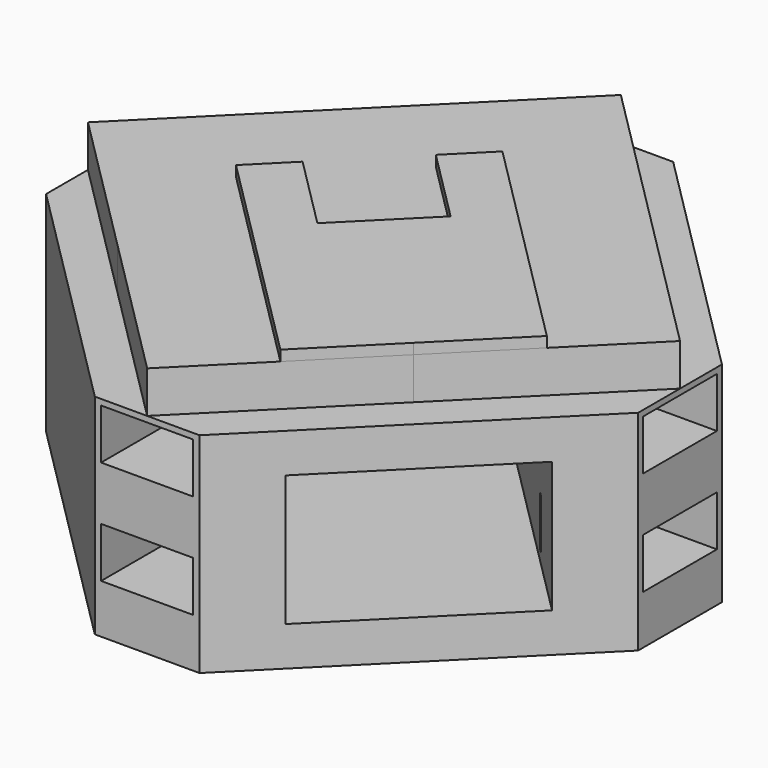
from build123d import *

# Parameters (mm, degrees)
F1_DEPTH  = 15.24
F2_DEPTH  = 12.7
F4_W      = 5.588
F4_H      = 3.048
F4_W_2    = 5.08
F4_H_2    = 2.481671654
F4_W_3    = 2.54
F4_H_3    = 2.6544967359
F5_DEPTH  = 6.604
F6_W      = 5.588
F6_H      = 3.048
F6_W_2    = 5.08
F6_H_2    = 2.481671654
F6_W_3    = 2.54
F6_H_3    = 2.6544967359
F7_DEPTH  = 6.604
F8_W      = 5.588
F8_H      = 3.048
F8_W_2    = 5.08
F8_H_2    = 2.481671654
F8_W_3    = 2.54
F8_H_3    = 2.6544967359
F9_DEPTH  = 6.604
F10_DEPTH = 3.175
F11_W     = 5.588
F11_H     = 3.048
F11_W_2   = 5.08
F11_H_2   = 2.481671654
F11_W_3   = 2.54
F11_H_3   = 2.6544967359
F12_DEPTH = 6.604
F14_DEPTH = 38.1


with BuildPart() as f1:
    # F0 (on Top) → F1 (new body)
    with BuildSketch(Plane.XY):
        Polygon((8.9802561211, 8.9802561211), (0, 17.9605122421), (-8.9802561211, 8.9802561211), (0, 0), align=None)
        Polygon((17.9605122421, 0), (8.9802561211, 8.9802561211), (0, 0), (8.9802561211, -8.9802561211), align=None)
        Polygon((0, 0), (-8.9802561211, -8.9802561211), (0, -17.9605122421), (8.9802561211, -8.9802561211), align=None)
        Polygon((-8.9802561211, 8.9802561211), (-17.9605122421, 0), (-8.9802561211, -8.9802561211), (0, 0), align=None)
    extrude(amount=F1_DEPTH)

    # F0 (on Top) → F2 (join)
    with BuildSketch(Plane.XY):
        Polygon((0, 17.9605122421), (-3.175, 17.9605122421), (-17.9605122421, 3.175), (-17.9605122421, 0), (-8.9802561211, 8.9802561211), align=None)
        Polygon((-8.9802561211, -8.9802561211), (-17.9605122421, 0), (-17.9605122421, -3.175), (-3.175, -17.9605122421), (0, -17.9605122421), align=None)
        Polygon((17.9605122421, -3.175), (17.9605122421, 0), (8.9802561211, -8.9802561211), (0, -17.9605122421), (3.175, -17.9605122421), align=None)
        Polygon((3.175, 17.9605122421), (0, 17.9605122421), (8.9802561211, 8.9802561211), (17.9605122421, 0), (17.9605122421, 3.175), align=None)
    extrude(amount=F2_DEPTH)

    # F4 (on face) → F5 (cut)
    with BuildSketch(Plane(origin=(-17.9605122421, 0, 0), x_dir=(0, -1, 0), z_dir=(-1, 0, 0))):
        with Locations((0, 10.824164173)):
            Rectangle(F4_W, F4_H)
        with Locations((0, 10.824164173)):
            Rectangle(F4_W_2, F4_H_2, mode=Mode.SUBTRACT)
        with Locations((0, 10.824164173)):
            Rectangle(F4_W_2, F4_H_2)
        with Locations((-1.27, 4.5022483679)):
            Rectangle(F4_W_3, F4_H_3)
        with Locations((1.27, 4.5022483679)):
            Rectangle(F4_W_3, F4_H_3)
        Polygon((0, 3.175), (-2.54, 3.175), (-2.54, 5.8294967359), (0, 5.8294967359), (0, 6.0262483679), (-2.794, 6.0262483679), (-2.794, 2.9782483679), (0, 2.9782483679), align=None)
        Polygon((2.54, 3.175), (0, 3.175), (0, 2.9782483679), (2.794, 2.9782483679), (2.794, 6.0262483679), (0, 6.0262483679), (0, 5.8294967359), (2.54, 5.8294967359), align=None)
    extrude(amount=-F5_DEPTH, mode=Mode.SUBTRACT)

    # F6 (on face) → F7 (cut)
    with BuildSketch(Plane.YZ.offset(17.9605122421)):
        with Locations((0, 10.824164173)):
            Rectangle(F6_W, F6_H)
        with Locations((0, 10.824164173)):
            Rectangle(F6_W_2, F6_H_2, mode=Mode.SUBTRACT)
        with Locations((0, 10.824164173)):
            Rectangle(F6_W_2, F6_H_2)
        with Locations((1.27, 4.5022483679)):
            Rectangle(F6_W_3, F6_H_3)
        with Locations((-1.27, 4.5022483679)):
            Rectangle(F6_W_3, F6_H_3)
        Polygon((0, 3.175), (-2.54, 3.175), (-2.54, 5.8294967359), (0, 5.8294967359), (0, 6.0262483679), (-2.794, 6.0262483679), (-2.794, 2.9782483679), (0, 2.9782483679), align=None)
        Polygon((2.54, 3.175), (0, 3.175), (0, 2.9782483679), (2.794, 2.9782483679), (2.794, 6.0262483679), (0, 6.0262483679), (0, 5.8294967359), (2.54, 5.8294967359), align=None)
    extrude(amount=-F7_DEPTH, mode=Mode.SUBTRACT)

    # F8 (on face) → F9 (cut)
    with BuildSketch(Plane.XZ.offset(17.9605122421)):
        with Locations((0, 10.824164173)):
            Rectangle(F8_W, F8_H)
        with Locations((0, 10.824164173)):
            Rectangle(F8_W_2, F8_H_2, mode=Mode.SUBTRACT)
        Polygon((2.54, 3.175), (0, 3.175), (0, 2.9782483679), (2.794, 2.9782483679), (2.794, 6.0262483679), (0, 6.0262483679), (0, 5.8294967359), (2.54, 5.8294967359), align=None)
        Polygon((0, 3.175), (-2.54, 3.175), (-2.54, 5.8294967359), (0, 5.8294967359), (0, 6.0262483679), (-2.794, 6.0262483679), (-2.794, 2.9782483679), (0, 2.9782483679), align=None)
        with Locations((-1.27, 4.5022483679)):
            Rectangle(F8_W_3, F8_H_3)
        with Locations((0, 10.824164173)):
            Rectangle(F8_W_2, F8_H_2)
        with Locations((1.27, 4.5022483679)):
            Rectangle(F8_W_3, F8_H_3)
    extrude(amount=-F9_DEPTH, mode=Mode.SUBTRACT)

    # F3 (on face) → F10 (join)
    with BuildSketch(Plane.XY.offset(12.7)):
        Polygon((0, 0), (8.9802561211, -8.9802561211), (13.4703841816, -4.4901280605), (0, 8.9802561211), (-2.2450640303, 6.7351920908), (2.2450640303, 2.2450640303), align=None)
        Polygon((4.4901280605, -13.4703841816), (8.9802561211, -8.9802561211), (0, 0), (-2.2450640303, -2.2450640303), (-6.7351920908, 2.2450640303), (-8.9802561211, 0), align=None)
    extrude(amount=F10_DEPTH)

    # F11 (on face) → F12 (cut)
    with BuildSketch(Plane(origin=(0, 17.9605122421, 0), x_dir=(-1, 0, 0), z_dir=(0, 1, 0))):
        Polygon((0, 3.175), (-2.54, 3.175), (-2.54, 5.8294967359), (0, 5.8294967359), (0, 6.0262483679), (-2.794, 6.0262483679), (-2.794, 2.9782483679), (0, 2.9782483679), align=None)
        Polygon((2.54, 3.175), (0, 3.175), (0, 2.9782483679), (2.794, 2.9782483679), (2.794, 6.0262483679), (0, 6.0262483679), (0, 5.8294967359), (2.54, 5.8294967359), align=None)
        with Locations((0, 10.824164173)):
            Rectangle(F11_W, F11_H)
        with Locations((0, 10.824164173)):
            Rectangle(F11_W_2, F11_H_2, mode=Mode.SUBTRACT)
        with Locations((-1.27, 4.5022483679)):
            Rectangle(F11_W_3, F11_H_3)
        with Locations((1.27, 4.5022483679)):
            Rectangle(F11_W_3, F11_H_3)
        with Locations((0, 10.824164173)):
            Rectangle(F11_W_2, F11_H_2)
    extrude(amount=-F12_DEPTH, mode=Mode.SUBTRACT)

    # F13 (on face) → F14 (cut)
    with BuildSketch(Plane(origin=(-10.5677561211, 10.5677561211, 0), x_dir=(-0.7071067812, -0.7071067812, 0), z_dir=(-0.7071067812, 0.7071067812, 0))):
        Polygon((-6.35, 2.38125), (0, 2.38125), (6.35, 2.38125), (6.35, 10.31875), (-6.35, 10.31875), align=None)
    extrude(amount=-F14_DEPTH, mode=Mode.SUBTRACT)


solid = f1.part
